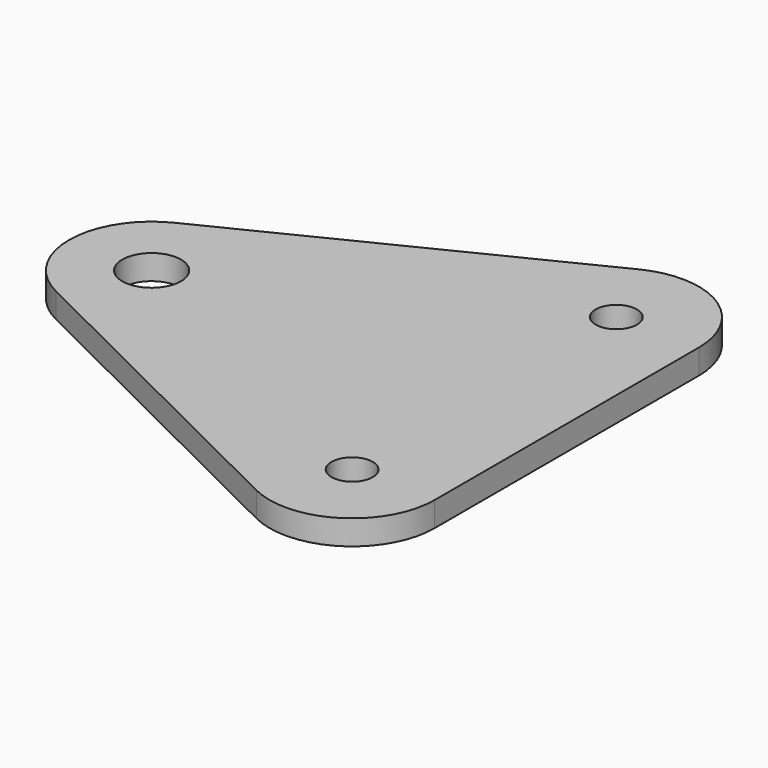
from build123d import *

# Parameters (mm, degrees)
F0_R     = 2.5
F0_R_2   = 3.56
F1_DEPTH = 3


with BuildPart() as f1:
    # F0 (on Top) → F1 (new body)
    with BuildSketch(Plane.XY):
        with BuildLine():
            Line((10, 0), (10, 40))
            ThreePointArc((10, 40), (5.269569, 48.49892), (-4.446329, 48.957129))
            Line((-4.446329, 48.957129), (-44.736329, 28.957129))
            ThreePointArc((-44.736329, 28.957129), (-50.29, 20), (-44.736329, 11.042871))
            Line((-44.736329, 11.042871), (-4.446329, -8.957129))
            ThreePointArc((-4.446329, -8.957129), (5.269569, -8.49892), (10, 0))
        make_face()
        Circle(F0_R, mode=Mode.SUBTRACT)
        with Locations((-40.29, 20)):
            Circle(F0_R_2, mode=Mode.SUBTRACT)
        with Locations((0, 40)):
            Circle(F0_R, mode=Mode.SUBTRACT)
    extrude(amount=F1_DEPTH)


solid = f1.part
